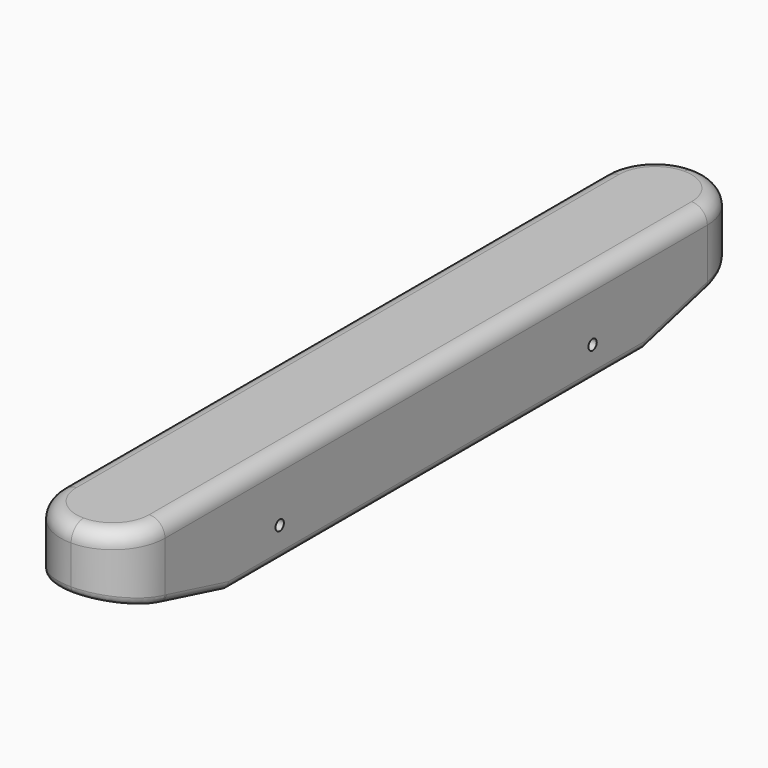
from build123d import *

# Parameters (mm, degrees)
F0_R     = 5
F1_DEPTH = 18
F2_DEPTH = 10
F4_DEPTH = 20.001
F5_R     = 1.5
F6_R     = 3
F7_R     = 1
F8_DEPTH = 20.001


with BuildPart() as f1:
    # F0 (on Top) → F1 (new body)
    with BuildSketch(Plane.XY):
        with BuildLine():
            ThreePointArc((0, -75), (7.071068, -72.071068), (10, -65))
            Line((10, -65), (10, 65))
            ThreePointArc((10, 65), (7.071068, 72.071068), (0, 75))
            ThreePointArc((0, 75), (-7.071068, 72.071068), (-10, 65))
            Line((-10, 65), (-10, -65))
            ThreePointArc((-10, -65), (-7.071068, -72.071068), (0, -75))
        make_face()
        with Locations((0, -37.5)):
            Circle(F0_R, mode=Mode.SUBTRACT)
        with Locations((0, 37.5)):
            Circle(F0_R, mode=Mode.SUBTRACT)
        with Locations((0, -37.5)):
            Circle(F0_R)
        with Locations((0, 37.5)):
            Circle(F0_R)
    extrude(amount=F1_DEPTH)

    # F0 (on Top) → F2 (cut)
    with BuildSketch(Plane.XY):
        with Locations((0, -37.5)):
            Circle(F0_R)
        with Locations((0, 37.5)):
            Circle(F0_R)
    extrude(amount=F2_DEPTH, mode=Mode.SUBTRACT)

    # F3 (on face) → F4 (cut, through all)
    with BuildSketch(Plane.YZ.offset(10)):
        Polygon((-65, 0), (-65, 3.872983), (-88.729833, 10), (-88.729833, 0), align=None)
        Polygon((-65, 0), (-50, 0), (-65, 3.872983), align=None)
        Polygon((65, 3.872983), (65, 0), (88.729833, 0), (88.729833, 10), align=None)
        Polygon((65, 3.872983), (50, 0), (65, 0), align=None)
    extrude(amount=-F4_DEPTH, mode=Mode.SUBTRACT)

    # F5
    f5_edges = [f1.edges().sort_by_distance(p)[0] for p in [
        (10, -57.5, 1.936492),
        (10, 57.5, 1.936492),
        (10, 0, 0),
        (-10, 0, 0),
    ]]
    fillet(f5_edges, radius=F5_R)

    # F6
    f6_edges = [f1.edges().sort_by_distance(p)[0] for p in [
        (-10, 0, 18),
    ]]
    fillet(f6_edges, radius=F6_R)

    # F7 (on face) → F8 (cut, through all)
    with BuildSketch(Plane.YZ.offset(10)):
        with Locations((-37.5, 6)):
            Circle(F7_R)
        with Locations((37.5, 6)):
            Circle(F7_R)
    extrude(amount=-F8_DEPTH, mode=Mode.SUBTRACT)


solid = f1.part
